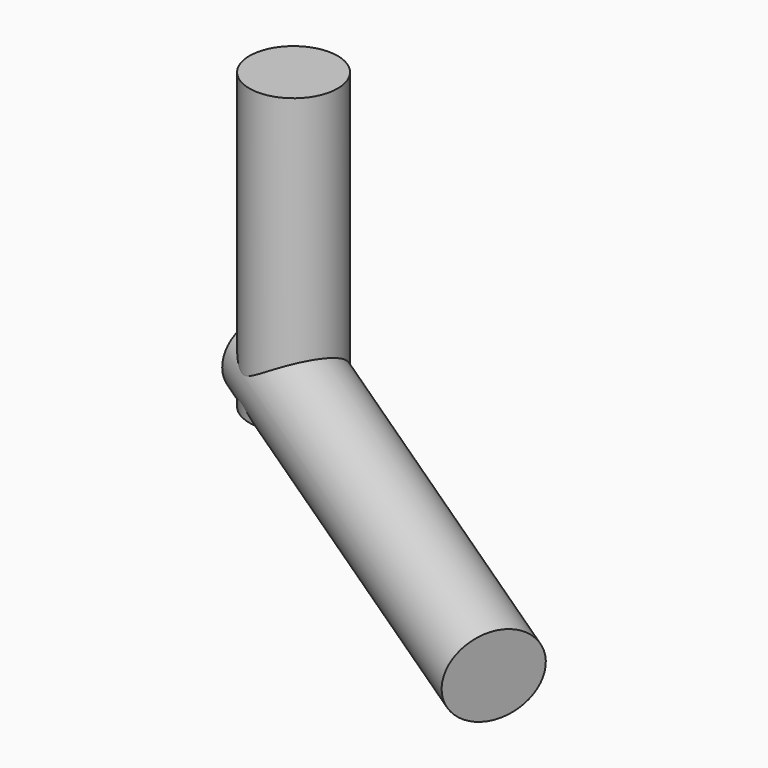
from build123d import *

# Parameters (mm, degrees)
CYLINDER061_R               = 3
CYLINDER061_DEPTH           = 20
CYLINDER060_R               = 3
CYLINDER060_DEPTH           = 30
CYLINDER060_ROLL_ANGLE      = -80.132309
CYLINDER060_PITCH_ANGLE     = -5.803783
CYLINDER060_PLACEMENT_ANGLE = 60.843577


with BuildPart() as cylindre057:
    # Cylinder061 → Cylinder061 (new body)
    with BuildSketch(Plane(origin=(-18, 17, -70), x_dir=(1, 0, 0), z_dir=(0, 0, 1))):
        Circle(CYLINDER061_R)
    extrude(amount=CYLINDER061_DEPTH)


with BuildPart() as fusion030:
    # Cylinder060 → Cylinder060 (new body)
    with BuildSketch(Plane.XY):
        Circle(CYLINDER060_R)
    extrude(amount=CYLINDER060_DEPTH)


with BuildPart() as fusion030_1:
    # Cylinder060 roll: moved
    add(fusion030.part.rotate(Axis((0, 0, 0), (1, 0, 0)), CYLINDER060_ROLL_ANGLE))


with BuildPart() as fusion030_2:
    # Cylinder060 pitch: moved
    add(fusion030_1.part.rotate(Axis((0, 0, 0), (0, 1, 0)), CYLINDER060_PITCH_ANGLE))


with BuildPart() as fusion030_3:
    # Cylinder060 placement: moved
    add(fusion030_2.part.moved(Location((6, 4, -73))).rotate(Axis((6, 4, -73), (0, 0, 1)), CYLINDER060_PLACEMENT_ANGLE))

    # Fusion030: union Cylindre057
    add(cylindre057.part)


solid = fusion030_3.part
